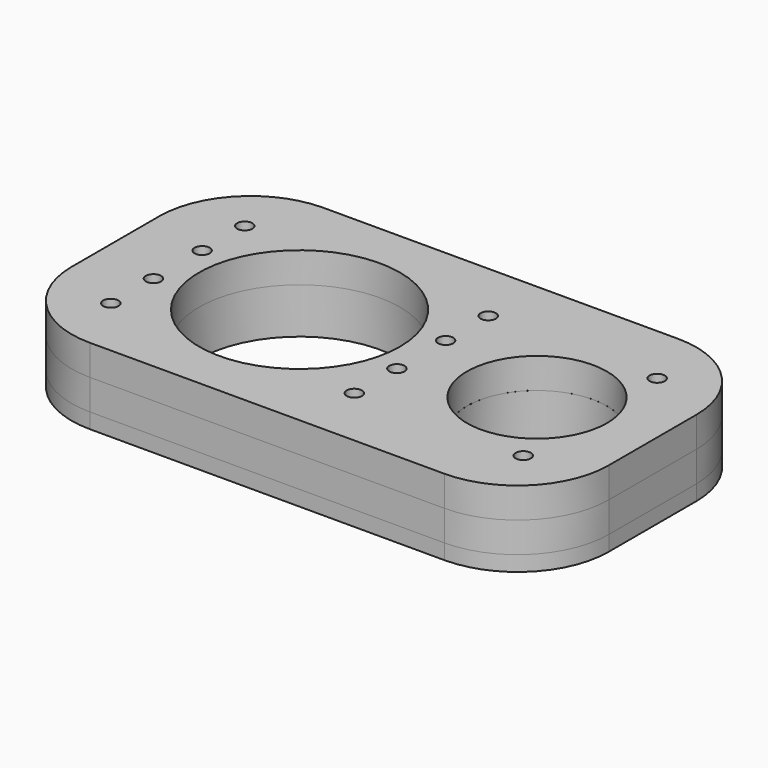
from build123d import *

# Parameters (mm, degrees)
F0_R     = 3.175
F0_R_2   = 41.91
F1_DEPTH = 19.05
F2_DEPTH = 10
F3_R     = 3.175
F3_R_2   = 41.91
F3_R_3   = 29.21
F5_DEPTH = 12.7
F4_R     = 3.175
F6_DEPTH = 12.7
F7_DEPTH = 8.89


with BuildPart() as f1:
    # F0 (on Top) → F1 (new body)
    with BuildSketch(Plane.XY):
        with BuildLine():
            ThreePointArc((109.22, -60.96), (136.1607683632, -49.8007683632), (147.32, -22.86))
            Line((147.32, -22.86), (147.32, 22.86))
            ThreePointArc((147.32, 22.86), (136.1607683632, 49.8007683632), (109.22, 60.96))
            Line((109.22, 60.96), (-38.735, 60.96))
            ThreePointArc((-38.735, 60.96), (-65.6757683632, 49.8007683632), (-76.835, 22.86))
            Line((-76.835, 22.86), (-76.835, -22.86))
            ThreePointArc((-76.835, -22.86), (-65.6757683632, -49.8007683632), (-38.735, -60.96))
            Line((-38.735, -60.96), (109.22, -60.96))
        make_face()
        with BuildLine():
            ThreePointArc((140.97, -22.86), (131.6706403027, -45.3106403027), (109.22, -54.61))
            Line((109.22, -54.61), (-38.735, -54.61))
            ThreePointArc((-38.735, -54.61), (-61.1856403027, -45.3106403027), (-70.485, -22.86))
            Line((-70.485, -22.86), (-70.485, 22.86))
            ThreePointArc((-70.485, 22.86), (-61.1856403027, 45.3106403027), (-38.735, 54.61))
            Line((-38.735, 54.61), (109.22, 54.61))
            ThreePointArc((109.22, 54.61), (131.6706403027, 45.3106403027), (140.97, 22.86))
            Line((140.97, 22.86), (140.97, -22.86))
        make_face(mode=Mode.SUBTRACT)
        with BuildLine():
            Line((-38.735, -54.61), (109.22, -54.61))
            ThreePointArc((109.22, -54.61), (131.6706403027, -45.3106403027), (140.97, -22.86))
            Line((140.97, -22.86), (140.97, 22.86))
            ThreePointArc((140.97, 22.86), (131.6706403027, 45.3106403027), (109.22, 54.61))
            Line((109.22, 54.61), (-38.735, 54.61))
            ThreePointArc((-38.735, 54.61), (-61.1856403027, 45.3106403027), (-70.485, 22.86))
            Line((-70.485, 22.86), (-70.485, -22.86))
            ThreePointArc((-70.485, -22.86), (-61.1856403027, -45.3106403027), (-38.735, -54.61))
        make_face()
        with BuildLine():
            ThreePointArc((133.97, -22.86), (126.7208928344, -40.3608928344), (109.22, -47.61))
            Line((109.22, -47.61), (-38.735, -47.61))
            ThreePointArc((-38.735, -47.61), (-56.2358928344, -40.3608928344), (-63.485, -22.86))
            Line((-63.485, -22.86), (-63.485, 22.86))
            ThreePointArc((-63.485, 22.86), (-56.2358928344, 40.3608928344), (-38.735, 47.61))
            Line((-38.735, 47.61), (109.22, 47.61))
            ThreePointArc((109.22, 47.61), (126.7208928344, 40.3608928344), (133.97, 22.86))
            Line((133.97, 22.86), (133.97, -22.86))
        make_face(mode=Mode.SUBTRACT)
        with BuildLine():
            Line((-38.735, -47.61), (109.22, -47.61))
            ThreePointArc((109.22, -47.61), (126.7208928344, -40.3608928344), (133.97, -22.86))
            Line((133.97, -22.86), (133.97, 22.86))
            ThreePointArc((133.97, 22.86), (126.7208928344, 40.3608928344), (109.22, 47.61))
            Line((109.22, 47.61), (-38.735, 47.61))
            ThreePointArc((-38.735, 47.61), (-56.2358928344, 40.3608928344), (-63.485, 22.86))
            Line((-63.485, 22.86), (-63.485, -22.86))
            ThreePointArc((-63.485, -22.86), (-56.2358928344, -40.3608928344), (-38.735, -47.61))
        make_face()
        with Locations((-50.8, -34.925)):
            Circle(F0_R, mode=Mode.SUBTRACT)
        with Locations((-50.8, -12.7)):
            Circle(F0_R, mode=Mode.SUBTRACT)
        Circle(F0_R_2, mode=Mode.SUBTRACT)
        with Locations((50.8, -34.925)):
            Circle(F0_R, mode=Mode.SUBTRACT)
        with Locations((121.285, -34.925)):
            Circle(F0_R, mode=Mode.SUBTRACT)
        with Locations((50.8, -12.7)):
            Circle(F0_R, mode=Mode.SUBTRACT)
        with BuildLine():
            ThreePointArc((128.27, 0), (99.06, -29.21), (69.85, 0))
            ThreePointArc((69.85, 0), (99.06, 29.21), (128.27, 0))
        make_face(mode=Mode.SUBTRACT)
        with Locations((-50.8, 12.7)):
            Circle(F0_R, mode=Mode.SUBTRACT)
        with Locations((-50.8, 34.925)):
            Circle(F0_R, mode=Mode.SUBTRACT)
        with Locations((50.8, 12.7)):
            Circle(F0_R, mode=Mode.SUBTRACT)
        with Locations((50.8, 34.925)):
            Circle(F0_R, mode=Mode.SUBTRACT)
        with Locations((121.285, 34.925)):
            Circle(F0_R, mode=Mode.SUBTRACT)
    extrude(amount=-F1_DEPTH)

    # F0 (on Top) → F2 (cut)
    with BuildSketch(Plane.XY):
        with BuildLine():
            Line((-38.735, -54.61), (109.22, -54.61))
            ThreePointArc((109.22, -54.61), (131.6706403027, -45.3106403027), (140.97, -22.86))
            Line((140.97, -22.86), (140.97, 22.86))
            ThreePointArc((140.97, 22.86), (131.6706403027, 45.3106403027), (109.22, 54.61))
            Line((109.22, 54.61), (-38.735, 54.61))
            ThreePointArc((-38.735, 54.61), (-61.1856403027, 45.3106403027), (-70.485, 22.86))
            Line((-70.485, 22.86), (-70.485, -22.86))
            ThreePointArc((-70.485, -22.86), (-61.1856403027, -45.3106403027), (-38.735, -54.61))
        make_face()
        with BuildLine():
            ThreePointArc((133.97, -22.86), (126.7208928344, -40.3608928344), (109.22, -47.61))
            Line((109.22, -47.61), (-38.735, -47.61))
            ThreePointArc((-38.735, -47.61), (-56.2358928344, -40.3608928344), (-63.485, -22.86))
            Line((-63.485, -22.86), (-63.485, 22.86))
            ThreePointArc((-63.485, 22.86), (-56.2358928344, 40.3608928344), (-38.735, 47.61))
            Line((-38.735, 47.61), (109.22, 47.61))
            ThreePointArc((109.22, 47.61), (126.7208928344, 40.3608928344), (133.97, 22.86))
            Line((133.97, 22.86), (133.97, -22.86))
        make_face(mode=Mode.SUBTRACT)
    extrude(amount=-F2_DEPTH, mode=Mode.SUBTRACT)


with BuildPart() as f5:
    # F3 (on Top) → F5 (new body)
    with BuildSketch(Plane.XY):
        with BuildLine():
            Line((109.22, 60.96), (-38.735, 60.96))
            ThreePointArc((-38.735, 60.96), (-65.6757683632, 49.8007683632), (-76.835, 22.86))
            Line((-76.835, 22.86), (-76.835, -22.86))
            ThreePointArc((-76.835, -22.86), (-65.6757683632, -49.8007683632), (-38.735, -60.96))
            Line((-38.735, -60.96), (109.22, -60.96))
            ThreePointArc((109.22, -60.96), (136.1607683632, -49.8007683632), (147.32, -22.86))
            Line((147.32, -22.86), (147.32, 22.86))
            ThreePointArc((147.32, 22.86), (136.1607683632, 49.8007683632), (109.22, 60.96))
        make_face()
        with Locations((-50.8, -34.925)):
            Circle(F3_R, mode=Mode.SUBTRACT)
        with Locations((-50.8, -12.7)):
            Circle(F3_R, mode=Mode.SUBTRACT)
        Circle(F3_R_2, mode=Mode.SUBTRACT)
        with Locations((50.8, -34.925)):
            Circle(F3_R, mode=Mode.SUBTRACT)
        with Locations((121.285, -34.925)):
            Circle(F3_R, mode=Mode.SUBTRACT)
        with Locations((50.8, -12.7)):
            Circle(F3_R, mode=Mode.SUBTRACT)
        with Locations((99.06, 0)):
            Circle(F3_R_3, mode=Mode.SUBTRACT)
        with Locations((-50.8, 12.7)):
            Circle(F3_R, mode=Mode.SUBTRACT)
        with Locations((-50.8, 34.925)):
            Circle(F3_R, mode=Mode.SUBTRACT)
        with Locations((50.8, 12.7)):
            Circle(F3_R, mode=Mode.SUBTRACT)
        with Locations((50.8, 34.925)):
            Circle(F3_R, mode=Mode.SUBTRACT)
        with Locations((121.285, 34.925)):
            Circle(F3_R, mode=Mode.SUBTRACT)
    extrude(amount=F5_DEPTH)


with BuildPart() as f6:
    # F4 (on Top) → F6 (new body)
    with BuildSketch(Plane.XY):
        with BuildLine():
            Line((109.22, 60.96), (-38.735, 60.96))
            ThreePointArc((-38.735, 60.96), (-65.6757683632, 49.8007683632), (-76.835, 22.86))
            Line((-76.835, 22.86), (-76.835, -22.86))
            ThreePointArc((-76.835, -22.86), (-65.6757683632, -49.8007683632), (-38.735, -60.96))
            Line((-38.735, -60.96), (109.22, -60.96))
            ThreePointArc((109.22, -60.96), (136.1607683632, -49.8007683632), (147.32, -22.86))
            Line((147.32, -22.86), (147.32, 22.86))
            ThreePointArc((147.32, 22.86), (136.1607683632, 49.8007683632), (109.22, 60.96))
        make_face()
        with BuildLine():
            ThreePointArc((-70.485, 22.86), (-61.1856403027, 45.3106403027), (-38.735, 54.61))
            Line((-38.735, 54.61), (109.22, 54.61))
            ThreePointArc((109.22, 54.61), (131.6706403027, 45.3106403027), (140.97, 22.86))
            Line((140.97, 22.86), (140.97, -22.86))
            ThreePointArc((140.97, -22.86), (131.6706403027, -45.3106403027), (109.22, -54.61))
            Line((109.22, -54.61), (-38.735, -54.61))
            ThreePointArc((-38.735, -54.61), (-61.1856403027, -45.3106403027), (-70.485, -22.86))
            Line((-70.485, -22.86), (-70.485, 22.86))
        make_face(mode=Mode.SUBTRACT)
        with BuildLine():
            Line((109.22, 54.61), (-38.735, 54.61))
            ThreePointArc((-38.735, 54.61), (-61.1856403027, 45.3106403027), (-70.485, 22.86))
            Line((-70.485, 22.86), (-70.485, -22.86))
            ThreePointArc((-70.485, -22.86), (-61.1856403027, -45.3106403027), (-38.735, -54.61))
            Line((-38.735, -54.61), (109.22, -54.61))
            ThreePointArc((109.22, -54.61), (131.6706403027, -45.3106403027), (140.97, -22.86))
            Line((140.97, -22.86), (140.97, 22.86))
            ThreePointArc((140.97, 22.86), (131.6706403027, 45.3106403027), (109.22, 54.61))
        make_face()
        with BuildLine():
            ThreePointArc((-63.485, 22.86), (-56.2358928344, 40.3608928344), (-38.735, 47.61))
            Line((-38.735, 47.61), (109.22, 47.61))
            ThreePointArc((109.22, 47.61), (126.7208928344, 40.3608928344), (133.97, 22.86))
            Line((133.97, 22.86), (133.97, -22.86))
            ThreePointArc((133.97, -22.86), (126.7208928344, -40.3608928344), (109.22, -47.61))
            Line((109.22, -47.61), (-38.735, -47.61))
            ThreePointArc((-38.735, -47.61), (-56.2358928344, -40.3608928344), (-63.485, -22.86))
            Line((-63.485, -22.86), (-63.485, 22.86))
        make_face(mode=Mode.SUBTRACT)
        with BuildLine():
            Line((109.22, 47.61), (-38.735, 47.61))
            ThreePointArc((-38.735, 47.61), (-56.2358928344, 40.3608928344), (-63.485, 22.86))
            Line((-63.485, 22.86), (-63.485, -22.86))
            ThreePointArc((-63.485, -22.86), (-56.2358928344, -40.3608928344), (-38.735, -47.61))
            Line((-38.735, -47.61), (109.22, -47.61))
            ThreePointArc((109.22, -47.61), (126.7208928344, -40.3608928344), (133.97, -22.86))
            Line((133.97, -22.86), (133.97, 22.86))
            ThreePointArc((133.97, 22.86), (126.7208928344, 40.3608928344), (109.22, 47.61))
        make_face()
        with Locations((-50.8, -34.925)):
            Circle(F4_R, mode=Mode.SUBTRACT)
        with Locations((50.8, -34.925)):
            Circle(F4_R, mode=Mode.SUBTRACT)
        with Locations((121.285, -34.925)):
            Circle(F4_R, mode=Mode.SUBTRACT)
        with BuildLine():
            ThreePointArc((-57.15, 19.05), (-55.2901280605, 23.5401280605), (-50.8, 25.4))
            ThreePointArc((-50.8, 25.4), (-44.0648079092, 28.1898079092), (-41.275, 34.925))
            ThreePointArc((-41.275, 34.925), (-39.4151280605, 39.4151280605), (-34.925, 41.275))
            Line((-34.925, 41.275), (-9.7458952898, 41.275))
            ThreePointArc((-9.7458952898, 41.275), (0, 42.41), (9.7458952898, 41.275))
            Line((9.7458952898, 41.275), (34.925, 41.275))
            ThreePointArc((34.925, 41.275), (39.4151280605, 39.4151280605), (41.275, 34.925))
            ThreePointArc((41.275, 34.925), (50.8, 25.4), (60.325, 34.925))
            ThreePointArc((60.325, 34.925), (62.1848719395, 39.4151280605), (66.675, 41.275))
            Line((66.675, 41.275), (105.41, 41.275))
            ThreePointArc((105.41, 41.275), (109.9001280605, 39.4151280605), (111.76, 34.925))
            ThreePointArc((111.76, 34.925), (114.5498079092, 28.1898079092), (121.285, 25.4))
            ThreePointArc((121.285, 25.4), (125.7751280605, 23.5401280605), (127.635, 19.05))
            Line((127.635, 19.05), (127.635, 8.1334786531))
            ThreePointArc((127.635, 8.1334786531), (128.77, 0), (127.635, -8.1334786531))
            Line((127.635, -8.1334786531), (127.635, -19.05))
            ThreePointArc((127.635, -19.05), (125.7751280605, -23.5401280605), (121.285, -25.4))
            ThreePointArc((121.285, -25.4), (114.5498079092, -28.1898079092), (111.76, -34.925))
            ThreePointArc((111.76, -34.925), (109.9001280605, -39.4151280605), (105.41, -41.275))
            Line((105.41, -41.275), (66.675, -41.275))
            ThreePointArc((66.675, -41.275), (62.1848719395, -39.4151280605), (60.325, -34.925))
            ThreePointArc((60.325, -34.925), (50.8, -25.4), (41.275, -34.925))
            ThreePointArc((41.275, -34.925), (39.4151280605, -39.4151280605), (34.925, -41.275))
            Line((34.925, -41.275), (9.7458952898, -41.275))
            ThreePointArc((9.7458952898, -41.275), (0, -42.41), (-9.7458952898, -41.275))
            Line((-9.7458952898, -41.275), (-34.925, -41.275))
            ThreePointArc((-34.925, -41.275), (-39.4151280605, -39.4151280605), (-41.275, -34.925))
            ThreePointArc((-41.275, -34.925), (-44.0648079092, -28.1898079092), (-50.8, -25.4))
            ThreePointArc((-50.8, -25.4), (-55.2901280605, -23.5401280605), (-57.15, -19.05))
            Line((-57.15, -19.05), (-57.15, 19.05))
        make_face(mode=Mode.SUBTRACT)
        with Locations((-50.8, 34.925)):
            Circle(F4_R, mode=Mode.SUBTRACT)
        with Locations((50.8, 34.925)):
            Circle(F4_R, mode=Mode.SUBTRACT)
        with Locations((121.285, 34.925)):
            Circle(F4_R, mode=Mode.SUBTRACT)
    extrude(amount=-F6_DEPTH)

    # F4 (on Top) → F7 (cut)
    with BuildSketch(Plane.XY):
        with BuildLine():
            Line((109.22, 54.61), (-38.735, 54.61))
            ThreePointArc((-38.735, 54.61), (-61.1856403027, 45.3106403027), (-70.485, 22.86))
            Line((-70.485, 22.86), (-70.485, -22.86))
            ThreePointArc((-70.485, -22.86), (-61.1856403027, -45.3106403027), (-38.735, -54.61))
            Line((-38.735, -54.61), (109.22, -54.61))
            ThreePointArc((109.22, -54.61), (131.6706403027, -45.3106403027), (140.97, -22.86))
            Line((140.97, -22.86), (140.97, 22.86))
            ThreePointArc((140.97, 22.86), (131.6706403027, 45.3106403027), (109.22, 54.61))
        make_face()
        with BuildLine():
            ThreePointArc((-63.485, 22.86), (-56.2358928344, 40.3608928344), (-38.735, 47.61))
            Line((-38.735, 47.61), (109.22, 47.61))
            ThreePointArc((109.22, 47.61), (126.7208928344, 40.3608928344), (133.97, 22.86))
            Line((133.97, 22.86), (133.97, -22.86))
            ThreePointArc((133.97, -22.86), (126.7208928344, -40.3608928344), (109.22, -47.61))
            Line((109.22, -47.61), (-38.735, -47.61))
            ThreePointArc((-38.735, -47.61), (-56.2358928344, -40.3608928344), (-63.485, -22.86))
            Line((-63.485, -22.86), (-63.485, 22.86))
        make_face(mode=Mode.SUBTRACT)
    extrude(amount=-F7_DEPTH, mode=Mode.SUBTRACT)


solid = Compound([f1.part, f5.part, f6.part])
